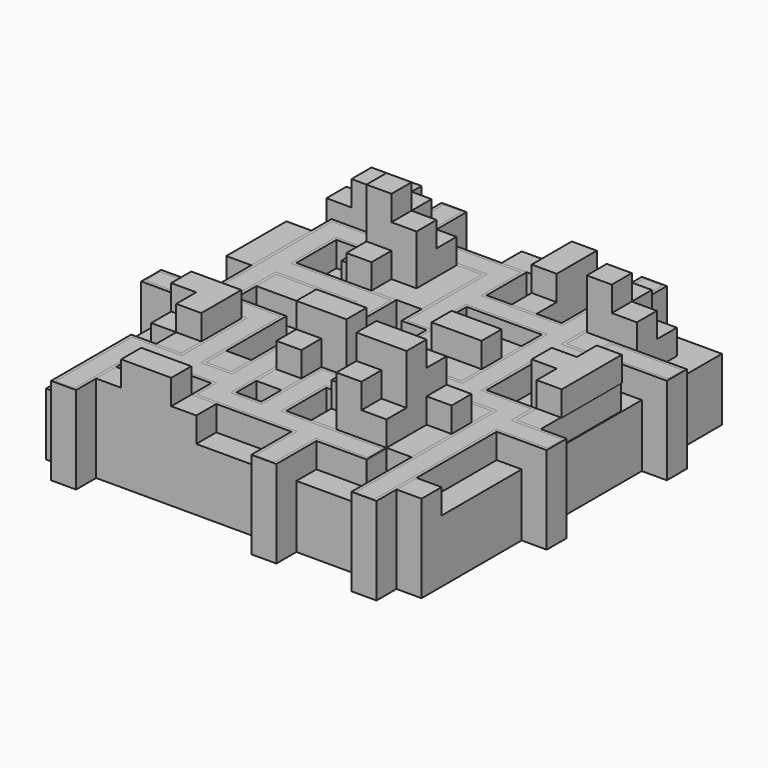
from build123d import *

# Parameters (mm, degrees)
SKETCH_W      = 60
SKETCH_H      = 60
PAD_DEPTH     = 10
SKETCH002_W   = 4
SKETCH002_H   = 12
SKETCH002_H_2 = 4
SKETCH002_W_2 = 8
PAD002_DEPTH  = 4
SKETCH003_W   = 8
SKETCH003_H   = 4
SKETCH003_W_2 = 4
SKETCH003_H_2 = 8
PAD003_DEPTH  = 4
SKETCH004_W   = 8
SKETCH004_H   = 4
SKETCH004_W_2 = 4
PAD004_DEPTH  = 4
SKETCH005_W   = 8
SKETCH005_H   = 4
SKETCH005_W_2 = 4
PAD005_DEPTH  = 4
SKETCH008_W   = 14
SKETCH008_H   = 7
POCKET_DEPTH  = 14
PAD006_DEPTH  = 4
SKETCH007_W   = 4
SKETCH007_H   = 4
PAD007_DEPTH  = 10
PAD009_DEPTH  = 4
SKETCH012_W   = 3.5
SKETCH012_H   = 3.5
PAD010_DEPTH  = 10
CHAMFER_SIZE  = 0.25


with BuildPart() as body:
    # Sketch → Pad (new body)
    with BuildSketch(Plane.XY):
        with Locations((30, 30)):
            Rectangle(SKETCH_W, SKETCH_H)
    extrude(amount=PAD_DEPTH)

    # Sketch002 (on Face6 of Pad) → Pad002 (join)
    with BuildSketch(Plane.XY.offset(10)):
        Polygon((12, 48), (12, 44), (16, 44), (16, 40), (28, 40), (28, 52), (16, 52), (16, 48), align=None)
        Polygon((36, 36), (40, 36), (40, 40), (44, 40), (44, 28), (36, 28), align=None)
        Polygon((24, 28), (32, 28), (32, 20), (28, 20), (28, 12), (24, 12), align=None)
        Polygon((4, 24), (4, 16), (8, 16), (8, 12), (12, 12), (12, 24), align=None)
        Polygon((36, 16), (44, 16), (44, 20), (48, 20), (48, 24), (52, 24), (52, 8), (36, 8), align=None)
        Polygon((48, 56), (56, 56), (56, 48), (52, 48), (52, 44), (48, 44), align=None)
        with Locations((2, 42)):
            Rectangle(SKETCH002_W, SKETCH002_H)
        Polygon((8, 56), (0, 56), (0, 60), (12, 60), (12, 56), align=None)
        Polygon((40, 48), (40, 60), (28, 60), (28, 56), (36, 56), (36, 48), align=None)
        Polygon((8, 4), (12, 4), (12, 8), (16, 8), (16, 4), (24, 4), (24, 0), (8, 0), align=None)
        Polygon((52, 40), (52, 32), (56, 32), (56, 24), (59.863968, 24), (59.863968, 40), align=None)
        with Locations((58, 2)):
            Rectangle(SKETCH002_W, SKETCH002_H_2)
        with Locations((12, 34)):
            Rectangle(SKETCH002_W_2, SKETCH002_H_2)
        with Locations((18, 14)):
            Rectangle(SKETCH002_W, SKETCH002_H_2)
    extrude(amount=PAD002_DEPTH)

    # Sketch003 (on Face93 of Pad002) → Pad003 (join)
    with BuildSketch(Plane.XY.offset(14)):
        Polygon((24, 52), (24, 44), (20, 44), (20, 40), (16, 40), (16, 52), align=None)
        Polygon((48, 56), (52, 56), (52, 52), (56, 52), (56, 48), (48, 48), align=None)
        Polygon((36, 16), (36, 12), (40, 12), (40, 8), (48, 8), (48, 16), (52, 16), (52, 20), (44, 20), (44, 16), align=None)
        Polygon((4, 24), (4, 20), (8, 20), (8, 16), (12, 16), (12, 24), align=None)
        Polygon((24, 16), (28, 16), (28, 20), (32, 20), (32, 24), (28, 24), (28, 28), (24, 28), align=None)
        with Locations((40, 34)):
            Rectangle(SKETCH003_W, SKETCH003_H)
        with Locations((8, 58)):
            Rectangle(SKETCH003_W, SKETCH003_H)
        with Locations((38, 56)):
            Rectangle(SKETCH003_W_2, SKETCH003_H_2)
        Polygon((52, 36), (56, 36), (56, 40), (60, 40), (60, 28), (56, 28), (56, 32), (52, 32), align=None)
        with Locations((16, 2)):
            Rectangle(SKETCH003_W, SKETCH003_H)
    extrude(amount=PAD003_DEPTH)

    # Sketch004 (on Face170 of Pad003) → Pad004 (join)
    with BuildSketch(Plane.XY.offset(18)):
        Polygon((16, 52), (16, 44), (24, 44), (24, 48), (20, 48), (20, 52), align=None)
        with Locations((28, 22)):
            Rectangle(SKETCH004_W, SKETCH004_H)
        Polygon((40, 16), (40, 8), (44, 8), (44, 12), (48, 12), (48, 20), (44, 20), (44, 16), align=None)
        with Locations((50, 50)):
            Rectangle(SKETCH004_W_2, SKETCH004_H)
    extrude(amount=PAD004_DEPTH)

    # Sketch005 (on Face201 of Pad004) → Pad005 (join)
    with BuildSketch(Plane.XY.offset(22)):
        with Locations((44, 14)):
            Rectangle(SKETCH005_W, SKETCH005_H)
        with Locations((18, 46)):
            Rectangle(SKETCH005_W_2, SKETCH005_H)
    extrude(amount=PAD005_DEPTH)

    # Sketch008 (on Face2 of Pad005) → Pocket (cut)
    with BuildSketch(Plane(origin=(0, 60, 0), x_dir=(-1, 0, 0), z_dir=(0, 1, 0))):
        with Locations((-30, 5)):
            Rectangle(SKETCH008_W, SKETCH008_H)
    extrude(amount=-POCKET_DEPTH, mode=Mode.SUBTRACT)


with BuildPart() as companionoutdated:
    # Sketch006 → Pad006 (new body)
    with BuildSketch(Plane.XY.offset(2)):
        Polygon((12, 64), (12, 52), (4, 52), (4, 28), (-4, 28), (-4, 24), (12, 24), (12, 12), (4, 12), (4, -4), (8, -4), (8, 8), (20, 8), (20, 4), (36, 4), (36, -4), (40, -4), (40, 4), (48, 4), (48, 8), (32, 8), (32, 16), (40, 16), (40, 24), (52, 24), (52, -4), (56, -4), (56, 20), (64, 20), (64, 24), (56, 24), (56, 28), (48, 28), (48, 40), (56, 40), (56, 44), (64, 44), (64, 48), (52, 48), (52, 44), (48, 44), (48, 64), (44, 64), (44, 48), (32, 48), (32, 56), (16, 56), (16, 64), align=None)
        Polygon((16, 52), (16, 48), (8, 48), (8, 40), (24, 40), (24, 8), (28, 8), (28, 20), (36, 20), (36, 24), (32, 24), (32, 36), (28, 36), (28, 52), align=None, mode=Mode.SUBTRACT)
        Polygon((32, 44), (44, 44), (44, 28), (36, 28), (36, 40), (32, 40), align=None, mode=Mode.SUBTRACT)
        Polygon((8, 36), (20, 36), (20, 12), (16, 12), (16, 28), (8, 28), align=None, mode=Mode.SUBTRACT)
    extrude(amount=PAD006_DEPTH)

    # Sketch007 (on Face75 of Pad006) → Pad007 (join)
    with BuildSketch(Plane(origin=(0, 0, 2), x_dir=(1, 0, 0), z_dir=(0, 0, -1))):
        with Locations((6, 2)):
            Rectangle(SKETCH007_W, SKETCH007_H)
        with Locations((38, 2)):
            Rectangle(SKETCH007_W, SKETCH007_H)
        with Locations((54, 2)):
            Rectangle(SKETCH007_W, SKETCH007_H)
        with Locations((62, -22)):
            Rectangle(SKETCH007_W, SKETCH007_H)
        with Locations((62, -46)):
            Rectangle(SKETCH007_W, SKETCH007_H)
        with Locations((46, -62)):
            Rectangle(SKETCH007_W, SKETCH007_H)
        with Locations((14, -62)):
            Rectangle(SKETCH007_W, SKETCH007_H)
        with Locations((-2, -26)):
            Rectangle(SKETCH007_W, SKETCH007_H)
    extrude(amount=PAD007_DEPTH)


with BuildPart() as companionoutdated_1:
    # Body001 placement: moved
    add(companionoutdated.part.moved(Location((0, 0, 8))))


with BuildPart() as companion:
    # Sketch011 → Pad009 (new body)
    with BuildSketch(Plane.XY.offset(2)):
        Polygon((12.25, 63.75), (12.25, 51.75), (4.25, 51.75), (4.25, 27.75), (-3.75, 27.75), (-3.75, 24.25), (12.25, 24.25), (12.25, 11.75), (4.25, 11.75), (4.25, -3.75), (7.75, -3.75), (7.75, 8.25), (20.25, 8.25), (20.25, 4.25), (36.25, 4.25), (36.25, -3.75), (39.75, -3.75), (39.75, 4.25), (48, 4.25), (48, 7.75), (31.75, 7.75), (31.75, 16.25), (39.75, 16.25), (39.75, 24.25), (52.25, 24.25), (52.25, -3.75), (55.75, -3.75), (55.75, 20.25), (63.75, 20.25), (63.75, 23.75), (55.75, 23.75), (55.75, 27.75), (47.75, 27.75), (47.75, 40.25), (55.75, 40.25), (55.75, 44.25), (63.75, 44.25), (63.75, 47.75), (52.25, 47.75), (52.25, 43.75), (47.75, 43.75), (47.75, 63.75), (44.25, 63.75), (44.25, 47.75), (31.75, 47.75), (31.75, 55.75), (15.75, 55.75), (15.75, 63.75), align=None)
        Polygon((15.75, 52.25), (15.75, 48.25), (7.75, 48.25), (7.75, 39.75), (23.75, 39.75), (23.75, 7.75), (28.25, 7.75), (28.25, 19.75), (36.25, 19.75), (36.25, 24.25), (32.25, 24.25), (32.25, 36.25), (28.25, 36.25), (28.25, 52.25), align=None, mode=Mode.SUBTRACT)
        Polygon((31.75, 44.25), (44.25, 44.25), (44.25, 27.75), (35.75, 27.75), (35.75, 39.75), (31.75, 39.75), align=None, mode=Mode.SUBTRACT)
        Polygon((7.75, 36.25), (20.25, 36.25), (20.25, 11.75), (15.75, 11.75), (15.75, 27.75), (7.75, 27.75), align=None, mode=Mode.SUBTRACT)
    extrude(amount=PAD009_DEPTH)

    # Sketch012 (on Face75 of Pad009) → Pad010 (join)
    with BuildSketch(Plane(origin=(0, 0, 2), x_dir=(1, 0, 0), z_dir=(0, 0, -1))):
        with Locations((6, 2)):
            Rectangle(SKETCH012_W, SKETCH012_H)
        with Locations((38, 2)):
            Rectangle(SKETCH012_W, SKETCH012_H)
        with Locations((54, 2)):
            Rectangle(SKETCH012_W, SKETCH012_H)
        with Locations((62, -22)):
            Rectangle(SKETCH012_W, SKETCH012_H)
        with Locations((62, -46)):
            Rectangle(SKETCH012_W, SKETCH012_H)
        with Locations((46, -62)):
            Rectangle(SKETCH012_W, SKETCH012_H)
        with Locations((14, -62)):
            Rectangle(SKETCH012_W, SKETCH012_H)
        with Locations((-2, -26)):
            Rectangle(SKETCH012_W, SKETCH012_H)
    extrude(amount=PAD010_DEPTH)

    # Chamfer
    chamfer_edges = [companion.edges().sort_by_distance(p)[0] for p in [
        (59.75, 23.75, 6),
        (59.75, 20.25, 6),
        (55.75, 8.25, 6),
        (52.25, 10.25, 6),
        (46, 24.25, 6),
        (51.75, 27.75, 6),
        (55.75, 25.75, 6),
        (40, 27.75, 6),
        (39.75, 20.25, 6),
        (35.75, 16.25, 6),
        (31.75, 12, 6),
        (39.875, 7.75, 6),
        (48, 6, 6),
        (43.875, 4.25, 6),
        (39.75, 0.25, 6),
        (36.25, 0.25, 6),
        (28.25, 4.25, 6),
        (20.25, 6.25, 6),
        (14, 8.25, 6),
        (7.75, 2.25, 6),
        (4.25, 4, 6),
        (8.25, 11.75, 6),
        (12.25, 18, 6),
        (4.25, 24.25, 6),
        (15.75, 19.75, 6),
        (18, 11.75, 6),
        (20.25, 24, 6),
        (14, 36.25, 6),
        (7.75, 32, 6),
        (11.75, 27.75, 6),
        (28.25, 13.75, 6),
        (26, 7.75, 6),
        (23.75, 23.75, 6),
        (32.25, 19.75, 6),
        (36.25, 22, 6),
        (34.25, 24.25, 6),
        (32.25, 30.25, 6),
        (35.75, 33.75, 6),
        (44.25, 36, 6),
        (47.75, 34, 6),
        (51.75, 40.25, 6),
        (55.75, 42.25, 6),
        (59.75, 44.25, 6),
        (58, 47.75, 6),
        (52.25, 45.75, 6),
        (50, 43.75, 6),
        (47.75, 53.75, 6),
        (38, 47.75, 6),
        (38, 44.25, 6),
        (33.75, 39.75, 6),
        (31.75, 42, 6),
        (30.25, 36.25, 6),
        (28.25, 44.25, 6),
        (44.25, 55.75, 6),
        (15.75, 39.75, 6),
        (0.25, 27.75, 6),
        (4.25, 39.75, 6),
        (7.75, 44, 6),
        (31.75, 51.75, 6),
        (22, 52.25, 6),
        (23.75, 55.75, 6),
        (15.75, 59.75, 6),
        (12.25, 57.75, 6),
        (8.25, 51.75, 6),
        (11.75, 48.25, 6),
        (15.75, 50.25, 6),
    ]]
    chamfer(chamfer_edges, length=CHAMFER_SIZE)


with BuildPart() as companion_1:
    # Body003 placement: moved
    add(companion.part.moved(Location((0, 0, 8))))


solid = Compound([body.part, companionoutdated_1.part, companion_1.part])
